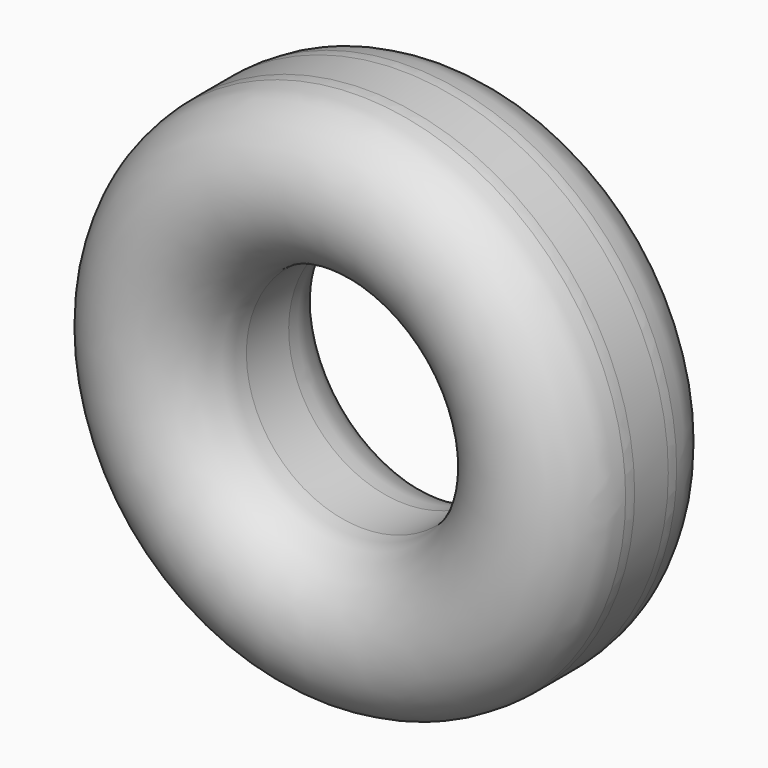
from build123d import *

# Parameters (mm, degrees)
F0_R     = 25.4
F1_DEPTH = 32.45895
F2_R     = 14.232827062
F3_R     = 11.0557662792
F4_DEPTH = 97.05153
F5_R     = 7.1628


with BuildPart() as f1:
    # F0 (on Front) → F1 (new body)
    with BuildSketch(Plane.XZ):
        Circle(F0_R)
    extrude(amount=F1_DEPTH)

    # F2
    f2_edges = [f1.edges().sort_by_distance(p)[0] for p in [
        (-25.4, -32.45895, 0),
        (-25.4, 0, 0),
    ]]
    fillet(f2_edges, radius=F2_R)

    # F3 (on Front) → F4 (cut)
    with BuildSketch(Plane.XZ):
        Circle(F3_R)
    extrude(amount=F4_DEPTH, mode=Mode.SUBTRACT)

    # F5
    f5_edges = [f1.edges().sort_by_distance(p)[0] for p in [
        (-11.055766, 0, 0),
        (11.055766, -16.229475, 0),
        (-11.055766, -32.45895, 0),
    ]]
    fillet(f5_edges, radius=F5_R)


solid = f1.part
